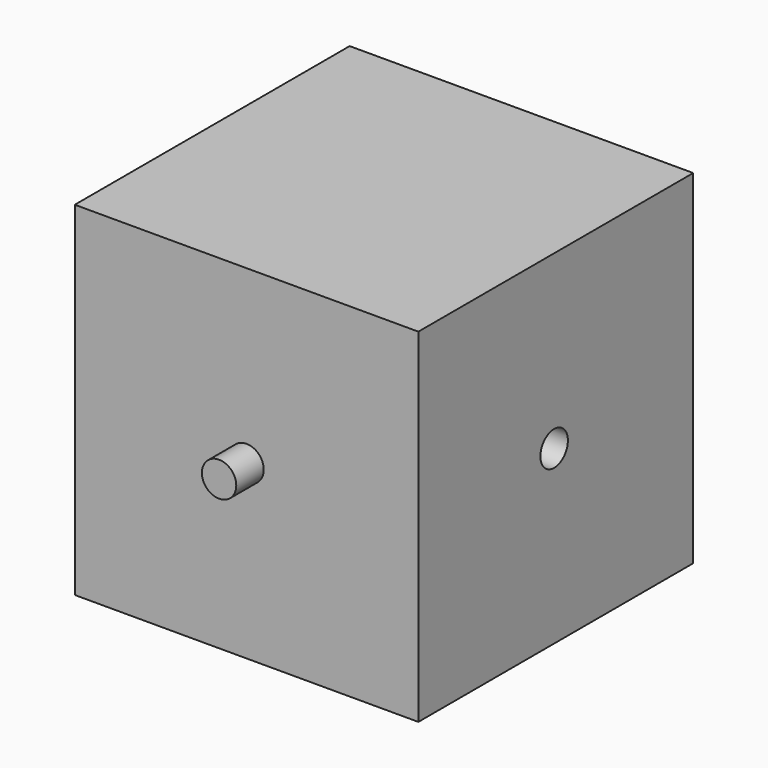
from build123d import *

# Parameters (mm, degrees)
F0_W     = 100
F0_H     = 100
F1_DEPTH = 100
F2_R     = 5
F3_DEPTH = 10
F4_R     = 5
F5_DEPTH = 10
F7_D     = 10


with BuildPart() as f1:
    # F0 (on Front) → F1 (new body)
    with BuildSketch(Plane.XZ):
        Rectangle(F0_W, F0_H)
    extrude(amount=F1_DEPTH)

    # F2 (on face) → F3 (join)
    with BuildSketch(Plane.XZ.offset(100)):
        Circle(F2_R)
    extrude(amount=F3_DEPTH)

    # F4 (on face) → F5 (join)
    with BuildSketch(Plane(origin=(0, 0, -50), x_dir=(1, 0, 0), z_dir=(0, 0, -1))):
        with Locations((0.200286, 29.510024)):
            Circle(F4_R)
    extrude(amount=F5_DEPTH)

    # F7 (through all)
    with Locations(Plane.YZ.offset(50)):
        with Locations((-50.594613, 0)):
            Hole(F7_D / 2)


solid = f1.part
